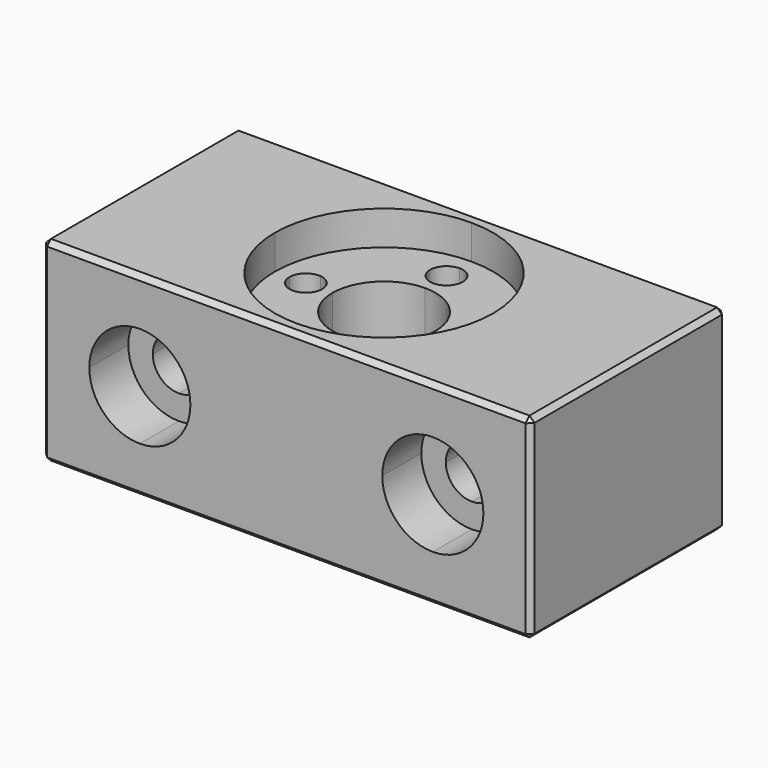
from build123d import *

# Parameters (mm, degrees)
F1_DEPTH = 20
F2_DEPTH = 16.5
F3_DEPTH = 5
F5_DEPTH = 5
F6_DEPTH = 25
F7_SIZE  = 0.5


with BuildPart() as f1:
    # F0 (on Top) → F1 (new body)
    with BuildSketch(Plane.XY):
        with BuildLine():
            Line((0, 12.5), (-25, 12.5))
            Line((-25, 12.5), (-25, 0))
            Line((-25, 0), (-11.175, 0))
            ThreePointArc((-11.175, 0), (-7.9019182798, 7.9019182798), (0, 11.175))
            Line((0, 11.175), (0, 12.5))
        make_face()
        with BuildLine():
            Line((25, 12.5), (0, 12.5))
            Line((0, 12.5), (0, 11.175))
            ThreePointArc((0, 11.175), (7.9019182798, 7.9019182798), (11.175, 0))
            Line((11.175, 0), (25, 0))
            Line((25, 0), (25, 12.5))
        make_face()
        with BuildLine():
            Line((-11.175, 0), (-25, 0))
            Line((-25, 0), (-25, -12.5))
            Line((-25, -12.5), (0, -12.5))
            Line((0, -12.5), (0, -11.175))
            ThreePointArc((0, -11.175), (-4.2764873567, -10.3243537758), (-7.9019182798, -7.9019182798))
            ThreePointArc((-7.9019182798, -7.9019182798), (-10.3243537758, -4.2764873567), (-11.175, 0))
        make_face()
        with BuildLine():
            Line((25, -12.5), (25, 0))
            Line((25, 0), (11.175, 0))
            ThreePointArc((11.175, 0), (7.9019182798, -7.9019182798), (0, -11.175))
            Line((0, -11.175), (0, -12.5))
            Line((0, -12.5), (25, -12.5))
        make_face()
    extrude(amount=F1_DEPTH)

    # F0 (on Top) → F2 (join)
    with BuildSketch(Plane.XY):
        with BuildLine():
            Line((-10.7067143025, 0), (-11.175, 0))
            ThreePointArc((-11.175, 0), (-10.3243537758, -4.2764873567), (-7.9019182798, -7.9019182798))
            Line((-7.9019182798, -7.9019182798), (-5.6568542495, -5.6568542495))
            ThreePointArc((-5.6568542495, -5.6568542495), (-6.7195546022, -4.34138065), (-7.48199556, -2.8319149775))
            Line((-7.48199556, -2.8319149775), (-7.9844976566, -3.1253675681))
            Line((-7.9844976566, -3.1253675681), (-10.6988965385, -1.5761092072))
            Line((-10.6988965385, -1.5761092072), (-10.7067143025, 0))
        make_face()
        with BuildLine():
            ThreePointArc((5.275, 0), (3.7299882708, -3.7299882708), (0, -5.275))
            Line((0, -5.275), (0, -5.2932856975))
            Line((0, -5.2932856975), (1.5761092072, -5.3011034615))
            Line((1.5761092072, -5.3011034615), (2.8228255641, -7.4854295691))
            ThreePointArc((2.8228255641, -7.4854295691), (5.6534179143, -5.6602884985), (7.48199556, -2.8319149775))
            Line((7.48199556, -2.8319149775), (5.2856011182, -1.5492583609))
            Line((5.2856011182, -1.5492583609), (5.2932856975, 0))
            Line((5.2932856975, 0), (5.275, 0))
        make_face()
        with BuildLine():
            ThreePointArc((7.4854295691, 2.8228255641), (5.6568542495, 5.6568542495), (2.8228255641, 7.4854295691))
            Line((2.8228255641, 7.4854295691), (1.5761092072, 5.3011034615))
            Line((1.5761092072, 5.3011034615), (0, 5.2932856975))
            Line((0, 5.2932856975), (0, 5.275))
            ThreePointArc((0, 5.275), (3.7299882708, 3.7299882708), (5.275, 0))
            Line((5.275, 0), (5.2932856975, 0))
            Line((5.2932856975, 0), (5.3011034615, 1.5761092072))
            Line((5.3011034615, 1.5761092072), (7.4854295691, 2.8228255641))
        make_face()
        with BuildLine():
            Line((0, 10.7067143025), (0, 11.175))
            ThreePointArc((0, 11.175), (-7.9019182798, 7.9019182798), (-11.175, 0))
            Line((-11.175, 0), (-10.7067143025, 0))
            Line((-10.7067143025, 0), (-10.7143988818, 1.5492583609))
            Line((-10.7143988818, 1.5492583609), (-8.0155023434, 3.1253675681))
            Line((-8.0155023434, 3.1253675681), (-7.4854295691, 2.8228255641))
            ThreePointArc((-7.4854295691, 2.8228255641), (-5.6602884985, 5.6534179143), (-2.8319149775, 7.48199556))
            Line((-2.8319149775, 7.48199556), (-3.1253675681, 7.9844976566))
            Line((-3.1253675681, 7.9844976566), (-1.5761092072, 10.6988965385))
            Line((-1.5761092072, 10.6988965385), (0, 10.7067143025))
        make_face()
        with BuildLine():
            ThreePointArc((-7.48199556, -2.8319149775), (-6.7195546022, -4.34138065), (-5.6568542495, -5.6568542495))
            Line((-5.6568542495, -5.6568542495), (-3.7299882708, -3.7299882708))
            ThreePointArc((-3.7299882708, -3.7299882708), (-4.873464534, -2.0186551057), (-5.275, 0))
            Line((-5.275, 0), (-5.2932856975, 0))
            Line((-5.2932856975, 0), (-5.2856011182, -1.5492583609))
            Line((-5.2856011182, -1.5492583609), (-7.48199556, -2.8319149775))
        make_face()
        with BuildLine():
            Line((-1.5492583609, 5.2856011182), (-2.8319149775, 7.48199556))
            ThreePointArc((-2.8319149775, 7.48199556), (-5.6602884985, 5.6534179143), (-7.4854295691, 2.8228255641))
            Line((-7.4854295691, 2.8228255641), (-5.3011034615, 1.5761092072))
            Line((-5.3011034615, 1.5761092072), (-5.2932856975, 0))
            Line((-5.2932856975, 0), (-5.275, 0))
            ThreePointArc((-5.275, 0), (-3.7299882708, 3.7299882708), (0, 5.275))
            Line((0, 5.275), (0, 5.2932856975))
            Line((0, 5.2932856975), (-1.5492583609, 5.2856011182))
        make_face()
        with BuildLine():
            ThreePointArc((-7.4854295691, 2.8228255641), (-7.6768679425, 2.2507106865), (-7.8246484375, 1.6657961549))
            ThreePointArc((-7.8246484375, 1.6657961549), (-6.7551428059, 1.1206942341), (-6.325, 0))
            Line((-6.325, 0), (-5.2932856975, 0))
            Line((-5.2932856975, 0), (-5.3011034615, 1.5761092072))
            Line((-5.3011034615, 1.5761092072), (-7.4854295691, 2.8228255641))
        make_face()
        with BuildLine():
            ThreePointArc((-6.325, 0), (-6.7551428059, -1.1206942341), (-7.8246484375, -1.6657961549))
            ThreePointArc((-7.8246484375, -1.6657961549), (-7.6754997162, -2.2553722766), (-7.48199556, -2.8319149775))
            Line((-7.48199556, -2.8319149775), (-5.2856011182, -1.5492583609))
            Line((-5.2856011182, -1.5492583609), (-5.2932856975, 0))
            Line((-5.2932856975, 0), (-6.325, 0))
        make_face()
        with BuildLine():
            Line((-10.7143988818, 1.5492583609), (-10.7067143025, 0))
            Line((-10.7067143025, 0), (-9.675, 0))
            ThreePointArc((-9.675, 0), (-9.1206942341, 1.2448571941), (-7.8246484375, 1.6657961549))
            ThreePointArc((-7.8246484375, 1.6657961549), (-7.6768679425, 2.2507106865), (-7.4854295691, 2.8228255641))
            Line((-7.4854295691, 2.8228255641), (-8.0155023434, 3.1253675681))
            Line((-8.0155023434, 3.1253675681), (-10.7143988818, 1.5492583609))
        make_face()
        with BuildLine():
            Line((-9.675, 0), (-10.7067143025, 0))
            Line((-10.7067143025, 0), (-10.6988965385, -1.5761092072))
            Line((-10.6988965385, -1.5761092072), (-7.9844976566, -3.1253675681))
            Line((-7.9844976566, -3.1253675681), (-7.48199556, -2.8319149775))
            ThreePointArc((-7.48199556, -2.8319149775), (-7.6754997162, -2.2553722766), (-7.8246484375, -1.6657961549))
            ThreePointArc((-7.8246484375, -1.6657961549), (-9.1206942341, -1.2448571941), (-9.675, 0))
        make_face()
        with BuildLine():
            Line((-5.6568542495, -5.6568542495), (-7.9019182798, -7.9019182798))
            ThreePointArc((-7.9019182798, -7.9019182798), (-4.2764873567, -10.3243537758), (0, -11.175))
            Line((0, -11.175), (0, -10.7067143025))
            Line((0, -10.7067143025), (-1.5761092072, -10.6988965385))
            Line((-1.5761092072, -10.6988965385), (-3.1253675681, -7.9844976566))
            Line((-3.1253675681, -7.9844976566), (-2.8319149775, -7.48199556))
            ThreePointArc((-2.8319149775, -7.48199556), (-4.34138065, -6.7195546022), (-5.6568542495, -5.6568542495))
        make_face()
        with BuildLine():
            Line((-3.7299882708, -3.7299882708), (-5.6568542495, -5.6568542495))
            ThreePointArc((-5.6568542495, -5.6568542495), (-4.34138065, -6.7195546022), (-2.8319149775, -7.48199556))
            Line((-2.8319149775, -7.48199556), (-1.5492583609, -5.2856011182))
            Line((-1.5492583609, -5.2856011182), (0, -5.2932856975))
            Line((0, -5.2932856975), (0, -5.275))
            ThreePointArc((0, -5.275), (-2.0186551057, -4.873464534), (-3.7299882708, -3.7299882708))
        make_face()
        with BuildLine():
            Line((-1.5492583609, -5.2856011182), (-2.8319149775, -7.48199556))
            ThreePointArc((-2.8319149775, -7.48199556), (-2.2553722766, -7.6754997162), (-1.6657961549, -7.8246484375))
            ThreePointArc((-1.6657961549, -7.8246484375), (-1.1206942341, -6.7551428059), (0, -6.325))
            Line((0, -6.325), (0, -5.2932856975))
            Line((0, -5.2932856975), (-1.5492583609, -5.2856011182))
        make_face()
        with BuildLine():
            Line((-1.5761092072, -10.6988965385), (0, -10.7067143025))
            Line((0, -10.7067143025), (0, -9.675))
            ThreePointArc((0, -9.675), (-1.2448571941, -9.1206942341), (-1.6657961549, -7.8246484375))
            ThreePointArc((-1.6657961549, -7.8246484375), (-2.2553722766, -7.6754997162), (-2.8319149775, -7.48199556))
            Line((-2.8319149775, -7.48199556), (-3.1253675681, -7.9844976566))
            Line((-3.1253675681, -7.9844976566), (-1.5761092072, -10.6988965385))
        make_face()
        with BuildLine():
            Line((0, -9.675), (0, -10.7067143025))
            Line((0, -10.7067143025), (1.5492583609, -10.7143988818))
            Line((1.5492583609, -10.7143988818), (3.1253675681, -8.0155023434))
            Line((3.1253675681, -8.0155023434), (2.8228255641, -7.4854295691))
            ThreePointArc((2.8228255641, -7.4854295691), (2.2507106865, -7.6768679425), (1.6657961549, -7.8246484375))
            ThreePointArc((1.6657961549, -7.8246484375), (1.6726974561, -7.9122035291), (1.675, -8))
            ThreePointArc((1.675, -8), (1.1844038585, -9.1844038585), (0, -9.675))
        make_face()
        with BuildLine():
            Line((0, -5.2932856975), (0, -6.325))
            ThreePointArc((0, -6.325), (1.1206942341, -6.7551428059), (1.6657961549, -7.8246484375))
            ThreePointArc((1.6657961549, -7.8246484375), (2.2507106865, -7.6768679425), (2.8228255641, -7.4854295691))
            Line((2.8228255641, -7.4854295691), (1.5761092072, -5.3011034615))
            Line((1.5761092072, -5.3011034615), (0, -5.2932856975))
        make_face()
        with BuildLine():
            ThreePointArc((0, -11.175), (7.9019182798, -7.9019182798), (11.175, 0))
            Line((11.175, 0), (10.7067143025, 0))
            Line((10.7067143025, 0), (10.6988965385, -1.5761092072))
            Line((10.6988965385, -1.5761092072), (7.9844976566, -3.1253675681))
            Line((7.9844976566, -3.1253675681), (7.48199556, -2.8319149775))
            ThreePointArc((7.48199556, -2.8319149775), (5.6534179143, -5.6602884985), (2.8228255641, -7.4854295691))
            Line((2.8228255641, -7.4854295691), (3.1253675681, -8.0155023434))
            Line((3.1253675681, -8.0155023434), (1.5492583609, -10.7143988818))
            Line((1.5492583609, -10.7143988818), (0, -10.7067143025))
            Line((0, -10.7067143025), (0, -11.175))
        make_face()
        with BuildLine():
            ThreePointArc((11.175, 0), (7.9019182798, 7.9019182798), (0, 11.175))
            Line((0, 11.175), (0, 10.7067143025))
            Line((0, 10.7067143025), (1.5492583609, 10.7143988818))
            Line((1.5492583609, 10.7143988818), (3.1253675681, 8.0155023434))
            Line((3.1253675681, 8.0155023434), (2.8228255641, 7.4854295691))
            ThreePointArc((2.8228255641, 7.4854295691), (5.6568542495, 5.6568542495), (7.4854295691, 2.8228255641))
            Line((7.4854295691, 2.8228255641), (8.0155023434, 3.1253675681))
            Line((8.0155023434, 3.1253675681), (10.7143988818, 1.5492583609))
            Line((10.7143988818, 1.5492583609), (10.7067143025, 0))
            Line((10.7067143025, 0), (11.175, 0))
        make_face()
        with BuildLine():
            Line((10.6988965385, -1.5761092072), (10.7067143025, 0))
            Line((10.7067143025, 0), (9.675, 0))
            ThreePointArc((9.675, 0), (9.1206942341, -1.2448571941), (7.8246484375, -1.6657961549))
            ThreePointArc((7.8246484375, -1.6657961549), (7.6754997162, -2.2553722766), (7.48199556, -2.8319149775))
            Line((7.48199556, -2.8319149775), (7.9844976566, -3.1253675681))
            Line((7.9844976566, -3.1253675681), (10.6988965385, -1.5761092072))
        make_face()
        with BuildLine():
            Line((9.675, 0), (10.7067143025, 0))
            Line((10.7067143025, 0), (10.7143988818, 1.5492583609))
            Line((10.7143988818, 1.5492583609), (8.0155023434, 3.1253675681))
            Line((8.0155023434, 3.1253675681), (7.4854295691, 2.8228255641))
            ThreePointArc((7.4854295691, 2.8228255641), (7.6768679425, 2.2507106865), (7.8246484375, 1.6657961549))
            ThreePointArc((7.8246484375, 1.6657961549), (9.1206942341, 1.2448571941), (9.675, 0))
        make_face()
        with BuildLine():
            ThreePointArc((6.325, 0), (6.7551428059, 1.1206942341), (7.8246484375, 1.6657961549))
            ThreePointArc((7.8246484375, 1.6657961549), (7.6768679425, 2.2507106865), (7.4854295691, 2.8228255641))
            Line((7.4854295691, 2.8228255641), (5.3011034615, 1.5761092072))
            Line((5.3011034615, 1.5761092072), (5.2932856975, 0))
            Line((5.2932856975, 0), (6.325, 0))
        make_face()
        with BuildLine():
            ThreePointArc((7.48199556, -2.8319149775), (7.6754997162, -2.2553722766), (7.8246484375, -1.6657961549))
            ThreePointArc((7.8246484375, -1.6657961549), (6.7551428059, -1.1206942341), (6.325, 0))
            Line((6.325, 0), (5.2932856975, 0))
            Line((5.2932856975, 0), (5.2856011182, -1.5492583609))
            Line((5.2856011182, -1.5492583609), (7.48199556, -2.8319149775))
        make_face()
        with BuildLine():
            ThreePointArc((1.6657961549, 7.8246484375), (1.1206942341, 6.7551428059), (0, 6.325))
            Line((0, 6.325), (0, 5.2932856975))
            Line((0, 5.2932856975), (1.5761092072, 5.3011034615))
            Line((1.5761092072, 5.3011034615), (2.8228255641, 7.4854295691))
            ThreePointArc((2.8228255641, 7.4854295691), (2.2507106865, 7.6768679425), (1.6657961549, 7.8246484375))
        make_face()
        with BuildLine():
            ThreePointArc((0, 6.325), (-1.1206942341, 6.7551428059), (-1.6657961549, 7.8246484375))
            ThreePointArc((-1.6657961549, 7.8246484375), (-2.2553722766, 7.6754997162), (-2.8319149775, 7.48199556))
            Line((-2.8319149775, 7.48199556), (-1.5492583609, 5.2856011182))
            Line((-1.5492583609, 5.2856011182), (0, 5.2932856975))
            Line((0, 5.2932856975), (0, 6.325))
        make_face()
        with BuildLine():
            Line((0, 9.675), (0, 10.7067143025))
            Line((0, 10.7067143025), (-1.5761092072, 10.6988965385))
            Line((-1.5761092072, 10.6988965385), (-3.1253675681, 7.9844976566))
            Line((-3.1253675681, 7.9844976566), (-2.8319149775, 7.48199556))
            ThreePointArc((-2.8319149775, 7.48199556), (-2.2553722766, 7.6754997162), (-1.6657961549, 7.8246484375))
            ThreePointArc((-1.6657961549, 7.8246484375), (-1.2448571941, 9.1206942341), (0, 9.675))
        make_face()
        with BuildLine():
            Line((1.5492583609, 10.7143988818), (0, 10.7067143025))
            Line((0, 10.7067143025), (0, 9.675))
            ThreePointArc((0, 9.675), (1.1844038585, 9.1844038585), (1.675, 8))
            ThreePointArc((1.675, 8), (1.6726974561, 7.9122035291), (1.6657961549, 7.8246484375))
            ThreePointArc((1.6657961549, 7.8246484375), (2.2507106865, 7.6768679425), (2.8228255641, 7.4854295691))
            Line((2.8228255641, 7.4854295691), (3.1253675681, 8.0155023434))
            Line((3.1253675681, 8.0155023434), (1.5492583609, 10.7143988818))
        make_face()
    extrude(amount=F2_DEPTH)

    # F0 (on Top) → F3 (cut)
    with BuildSketch(Plane.XY):
        with BuildLine():
            ThreePointArc((-6.325, 0), (-6.7551428059, -1.1206942341), (-7.8246484375, -1.6657961549))
            ThreePointArc((-7.8246484375, -1.6657961549), (-7.6754997162, -2.2553722766), (-7.48199556, -2.8319149775))
            Line((-7.48199556, -2.8319149775), (-5.2856011182, -1.5492583609))
            Line((-5.2856011182, -1.5492583609), (-5.2932856975, 0))
            Line((-5.2932856975, 0), (-6.325, 0))
        make_face()
        with BuildLine():
            ThreePointArc((-7.4854295691, 2.8228255641), (-7.6768679425, 2.2507106865), (-7.8246484375, 1.6657961549))
            ThreePointArc((-7.8246484375, 1.6657961549), (-6.7551428059, 1.1206942341), (-6.325, 0))
            Line((-6.325, 0), (-5.2932856975, 0))
            Line((-5.2932856975, 0), (-5.3011034615, 1.5761092072))
            Line((-5.3011034615, 1.5761092072), (-7.4854295691, 2.8228255641))
        make_face()
        with BuildLine():
            Line((-10.7143988818, 1.5492583609), (-10.7067143025, 0))
            Line((-10.7067143025, 0), (-9.675, 0))
            ThreePointArc((-9.675, 0), (-9.1206942341, 1.2448571941), (-7.8246484375, 1.6657961549))
            ThreePointArc((-7.8246484375, 1.6657961549), (-7.6768679425, 2.2507106865), (-7.4854295691, 2.8228255641))
            Line((-7.4854295691, 2.8228255641), (-8.0155023434, 3.1253675681))
            Line((-8.0155023434, 3.1253675681), (-10.7143988818, 1.5492583609))
        make_face()
        with BuildLine():
            Line((-9.675, 0), (-10.7067143025, 0))
            Line((-10.7067143025, 0), (-10.6988965385, -1.5761092072))
            Line((-10.6988965385, -1.5761092072), (-7.9844976566, -3.1253675681))
            Line((-7.9844976566, -3.1253675681), (-7.48199556, -2.8319149775))
            ThreePointArc((-7.48199556, -2.8319149775), (-7.6754997162, -2.2553722766), (-7.8246484375, -1.6657961549))
            ThreePointArc((-7.8246484375, -1.6657961549), (-9.1206942341, -1.2448571941), (-9.675, 0))
        make_face()
        with BuildLine():
            Line((-1.5492583609, -5.2856011182), (-2.8319149775, -7.48199556))
            ThreePointArc((-2.8319149775, -7.48199556), (-2.2553722766, -7.6754997162), (-1.6657961549, -7.8246484375))
            ThreePointArc((-1.6657961549, -7.8246484375), (-1.1206942341, -6.7551428059), (0, -6.325))
            Line((0, -6.325), (0, -5.2932856975))
            Line((0, -5.2932856975), (-1.5492583609, -5.2856011182))
        make_face()
        with BuildLine():
            Line((0, -5.2932856975), (0, -6.325))
            ThreePointArc((0, -6.325), (1.1206942341, -6.7551428059), (1.6657961549, -7.8246484375))
            ThreePointArc((1.6657961549, -7.8246484375), (2.2507106865, -7.6768679425), (2.8228255641, -7.4854295691))
            Line((2.8228255641, -7.4854295691), (1.5761092072, -5.3011034615))
            Line((1.5761092072, -5.3011034615), (0, -5.2932856975))
        make_face()
        with BuildLine():
            Line((0, -9.675), (0, -10.7067143025))
            Line((0, -10.7067143025), (1.5492583609, -10.7143988818))
            Line((1.5492583609, -10.7143988818), (3.1253675681, -8.0155023434))
            Line((3.1253675681, -8.0155023434), (2.8228255641, -7.4854295691))
            ThreePointArc((2.8228255641, -7.4854295691), (2.2507106865, -7.6768679425), (1.6657961549, -7.8246484375))
            ThreePointArc((1.6657961549, -7.8246484375), (1.6726974561, -7.9122035291), (1.675, -8))
            ThreePointArc((1.675, -8), (1.1844038585, -9.1844038585), (0, -9.675))
        make_face()
        with BuildLine():
            Line((-1.5761092072, -10.6988965385), (0, -10.7067143025))
            Line((0, -10.7067143025), (0, -9.675))
            ThreePointArc((0, -9.675), (-1.2448571941, -9.1206942341), (-1.6657961549, -7.8246484375))
            ThreePointArc((-1.6657961549, -7.8246484375), (-2.2553722766, -7.6754997162), (-2.8319149775, -7.48199556))
            Line((-2.8319149775, -7.48199556), (-3.1253675681, -7.9844976566))
            Line((-3.1253675681, -7.9844976566), (-1.5761092072, -10.6988965385))
        make_face()
        with BuildLine():
            Line((10.6988965385, -1.5761092072), (10.7067143025, 0))
            Line((10.7067143025, 0), (9.675, 0))
            ThreePointArc((9.675, 0), (9.1206942341, -1.2448571941), (7.8246484375, -1.6657961549))
            ThreePointArc((7.8246484375, -1.6657961549), (7.6754997162, -2.2553722766), (7.48199556, -2.8319149775))
            Line((7.48199556, -2.8319149775), (7.9844976566, -3.1253675681))
            Line((7.9844976566, -3.1253675681), (10.6988965385, -1.5761092072))
        make_face()
        with BuildLine():
            ThreePointArc((7.48199556, -2.8319149775), (7.6754997162, -2.2553722766), (7.8246484375, -1.6657961549))
            ThreePointArc((7.8246484375, -1.6657961549), (6.7551428059, -1.1206942341), (6.325, 0))
            Line((6.325, 0), (5.2932856975, 0))
            Line((5.2932856975, 0), (5.2856011182, -1.5492583609))
            Line((5.2856011182, -1.5492583609), (7.48199556, -2.8319149775))
        make_face()
        with BuildLine():
            ThreePointArc((6.325, 0), (6.7551428059, 1.1206942341), (7.8246484375, 1.6657961549))
            ThreePointArc((7.8246484375, 1.6657961549), (7.6768679425, 2.2507106865), (7.4854295691, 2.8228255641))
            Line((7.4854295691, 2.8228255641), (5.3011034615, 1.5761092072))
            Line((5.3011034615, 1.5761092072), (5.2932856975, 0))
            Line((5.2932856975, 0), (6.325, 0))
        make_face()
        with BuildLine():
            Line((9.675, 0), (10.7067143025, 0))
            Line((10.7067143025, 0), (10.7143988818, 1.5492583609))
            Line((10.7143988818, 1.5492583609), (8.0155023434, 3.1253675681))
            Line((8.0155023434, 3.1253675681), (7.4854295691, 2.8228255641))
            ThreePointArc((7.4854295691, 2.8228255641), (7.6768679425, 2.2507106865), (7.8246484375, 1.6657961549))
            ThreePointArc((7.8246484375, 1.6657961549), (9.1206942341, 1.2448571941), (9.675, 0))
        make_face()
        with BuildLine():
            Line((1.5492583609, 10.7143988818), (0, 10.7067143025))
            Line((0, 10.7067143025), (0, 9.675))
            ThreePointArc((0, 9.675), (1.1844038585, 9.1844038585), (1.675, 8))
            ThreePointArc((1.675, 8), (1.6726974561, 7.9122035291), (1.6657961549, 7.8246484375))
            ThreePointArc((1.6657961549, 7.8246484375), (2.2507106865, 7.6768679425), (2.8228255641, 7.4854295691))
            Line((2.8228255641, 7.4854295691), (3.1253675681, 8.0155023434))
            Line((3.1253675681, 8.0155023434), (1.5492583609, 10.7143988818))
        make_face()
        with BuildLine():
            ThreePointArc((1.6657961549, 7.8246484375), (1.1206942341, 6.7551428059), (0, 6.325))
            Line((0, 6.325), (0, 5.2932856975))
            Line((0, 5.2932856975), (1.5761092072, 5.3011034615))
            Line((1.5761092072, 5.3011034615), (2.8228255641, 7.4854295691))
            ThreePointArc((2.8228255641, 7.4854295691), (2.2507106865, 7.6768679425), (1.6657961549, 7.8246484375))
        make_face()
        with BuildLine():
            ThreePointArc((0, 6.325), (-1.1206942341, 6.7551428059), (-1.6657961549, 7.8246484375))
            ThreePointArc((-1.6657961549, 7.8246484375), (-2.2553722766, 7.6754997162), (-2.8319149775, 7.48199556))
            Line((-2.8319149775, 7.48199556), (-1.5492583609, 5.2856011182))
            Line((-1.5492583609, 5.2856011182), (0, 5.2932856975))
            Line((0, 5.2932856975), (0, 6.325))
        make_face()
        with BuildLine():
            Line((0, 9.675), (0, 10.7067143025))
            Line((0, 10.7067143025), (-1.5761092072, 10.6988965385))
            Line((-1.5761092072, 10.6988965385), (-3.1253675681, 7.9844976566))
            Line((-3.1253675681, 7.9844976566), (-2.8319149775, 7.48199556))
            ThreePointArc((-2.8319149775, 7.48199556), (-2.2553722766, 7.6754997162), (-1.6657961549, 7.8246484375))
            ThreePointArc((-1.6657961549, 7.8246484375), (-1.2448571941, 9.1206942341), (0, 9.675))
        make_face()
    extrude(amount=F3_DEPTH, mode=Mode.SUBTRACT)

    # F4 (on face) → F5 (cut)
    with BuildSketch(Plane.XZ.offset(12.5)):
        with BuildLine():
            ThreePointArc((-15, 12.675), (-13.1084893603, 11.8915106397), (-12.325, 10))
            Line((-12.325, 10), (-9.825, 10))
            ThreePointArc((-9.825, 10), (-11.3407224074, 13.6592775926), (-15, 15.175))
            Line((-15, 15.175), (-15, 12.675))
        make_face()
        with BuildLine():
            Line((-9.825, 10), (-12.325, 10))
            ThreePointArc((-12.325, 10), (-13.1084893603, 8.1084893603), (-15, 7.325))
            Line((-15, 7.325), (-15, 4.825))
            ThreePointArc((-15, 4.825), (-11.3407224074, 6.3407224074), (-9.825, 10))
        make_face()
        with BuildLine():
            ThreePointArc((15, 15.175), (11.3407224074, 13.6592775926), (9.825, 10))
            Line((9.825, 10), (12.325, 10))
            ThreePointArc((12.325, 10), (13.1084893603, 11.8915106397), (15, 12.675))
            Line((15, 12.675), (15, 15.175))
        make_face()
        with BuildLine():
            Line((12.325, 10), (9.825, 10))
            ThreePointArc((9.825, 10), (11.3407224074, 6.3407224074), (15, 4.825))
            Line((15, 4.825), (15, 7.325))
            ThreePointArc((15, 7.325), (13.1084893603, 8.1084893603), (12.325, 10))
        make_face()
        with BuildLine():
            ThreePointArc((-17.675, 10), (-16.8915106397, 11.8915106397), (-15, 12.675))
            Line((-15, 12.675), (-15, 15.175))
            ThreePointArc((-15, 15.175), (-18.6592775926, 13.6592775926), (-20.175, 10))
            Line((-20.175, 10), (-17.675, 10))
        make_face()
        with BuildLine():
            Line((-15, 4.825), (-15, 7.325))
            ThreePointArc((-15, 7.325), (-16.8915106397, 8.1084893603), (-17.675, 10))
            Line((-17.675, 10), (-20.175, 10))
            ThreePointArc((-20.175, 10), (-18.6592775926, 6.3407224074), (-15, 4.825))
        make_face()
        with BuildLine():
            ThreePointArc((20.175, 10), (18.6592775926, 13.6592775926), (15, 15.175))
            Line((15, 15.175), (15, 12.675))
            ThreePointArc((15, 12.675), (16.8915106397, 11.8915106397), (17.675, 10))
            Line((17.675, 10), (20.175, 10))
        make_face()
        with BuildLine():
            Line((15, 7.325), (15, 4.825))
            ThreePointArc((15, 4.825), (18.6592775926, 6.3407224074), (20.175, 10))
            Line((20.175, 10), (17.675, 10))
            ThreePointArc((17.675, 10), (16.8915106397, 8.1084893603), (15, 7.325))
        make_face()
        with BuildLine():
            Line((-15, 10), (-15, 12.675))
            ThreePointArc((-15, 12.675), (-16.8915106397, 11.8915106397), (-17.675, 10))
            Line((-17.675, 10), (-15, 10))
        make_face()
        with BuildLine():
            Line((-15, 7.325), (-15, 10))
            Line((-15, 10), (-17.675, 10))
            ThreePointArc((-17.675, 10), (-16.8915106397, 8.1084893603), (-15, 7.325))
        make_face()
        with BuildLine():
            ThreePointArc((-15, 7.325), (-13.1084893603, 8.1084893603), (-12.325, 10))
            Line((-12.325, 10), (-15, 10))
            Line((-15, 10), (-15, 7.325))
        make_face()
        with BuildLine():
            Line((-15, 10), (-12.325, 10))
            ThreePointArc((-12.325, 10), (-13.1084893603, 11.8915106397), (-15, 12.675))
            Line((-15, 12.675), (-15, 10))
        make_face()
        with BuildLine():
            Line((15, 10), (12.325, 10))
            ThreePointArc((12.325, 10), (13.1084893603, 8.1084893603), (15, 7.325))
            Line((15, 7.325), (15, 10))
        make_face()
        with BuildLine():
            Line((17.675, 10), (15, 10))
            Line((15, 10), (15, 7.325))
            ThreePointArc((15, 7.325), (16.8915106397, 8.1084893603), (17.675, 10))
        make_face()
        with BuildLine():
            ThreePointArc((17.675, 10), (16.8915106397, 11.8915106397), (15, 12.675))
            Line((15, 12.675), (15, 10))
            Line((15, 10), (17.675, 10))
        make_face()
        with BuildLine():
            ThreePointArc((15, 12.675), (13.1084893603, 11.8915106397), (12.325, 10))
            Line((12.325, 10), (15, 10))
            Line((15, 10), (15, 12.675))
        make_face()
    extrude(amount=-F5_DEPTH, mode=Mode.SUBTRACT)

    # F4 (on face) → F6 (cut)
    with BuildSketch(Plane.XZ.offset(12.5)):
        with BuildLine():
            Line((-15, 10), (-15, 12.675))
            ThreePointArc((-15, 12.675), (-16.8915106397, 11.8915106397), (-17.675, 10))
            Line((-17.675, 10), (-15, 10))
        make_face()
        with BuildLine():
            Line((-15, 10), (-12.325, 10))
            ThreePointArc((-12.325, 10), (-13.1084893603, 11.8915106397), (-15, 12.675))
            Line((-15, 12.675), (-15, 10))
        make_face()
        with BuildLine():
            ThreePointArc((-15, 7.325), (-13.1084893603, 8.1084893603), (-12.325, 10))
            Line((-12.325, 10), (-15, 10))
            Line((-15, 10), (-15, 7.325))
        make_face()
        with BuildLine():
            Line((-15, 7.325), (-15, 10))
            Line((-15, 10), (-17.675, 10))
            ThreePointArc((-17.675, 10), (-16.8915106397, 8.1084893603), (-15, 7.325))
        make_face()
        with BuildLine():
            ThreePointArc((15, 12.675), (13.1084893603, 11.8915106397), (12.325, 10))
            Line((12.325, 10), (15, 10))
            Line((15, 10), (15, 12.675))
        make_face()
        with BuildLine():
            ThreePointArc((17.675, 10), (16.8915106397, 11.8915106397), (15, 12.675))
            Line((15, 12.675), (15, 10))
            Line((15, 10), (17.675, 10))
        make_face()
        with BuildLine():
            Line((17.675, 10), (15, 10))
            Line((15, 10), (15, 7.325))
            ThreePointArc((15, 7.325), (16.8915106397, 8.1084893603), (17.675, 10))
        make_face()
        with BuildLine():
            Line((15, 10), (12.325, 10))
            ThreePointArc((12.325, 10), (13.1084893603, 8.1084893603), (15, 7.325))
            Line((15, 7.325), (15, 10))
        make_face()
    extrude(amount=-F6_DEPTH, mode=Mode.SUBTRACT)

    # F7
    f7_edges = [f1.edges().sort_by_distance(p)[0] for p in [
        (0, -12.5, 20),
        (25, 0, 20),
        (0, 12.5, 20),
        (-25, 0, 20),
        (-25, 12.5, 10),
        (-25, -12.5, 10),
        (-25, 0, 0),
        (0, 12.5, 0),
        (0, -12.5, 0),
        (25, -12.5, 10),
        (25, 0, 0),
        (25, 12.5, 10),
    ]]
    chamfer(f7_edges, length=F7_SIZE)


solid = f1.part
